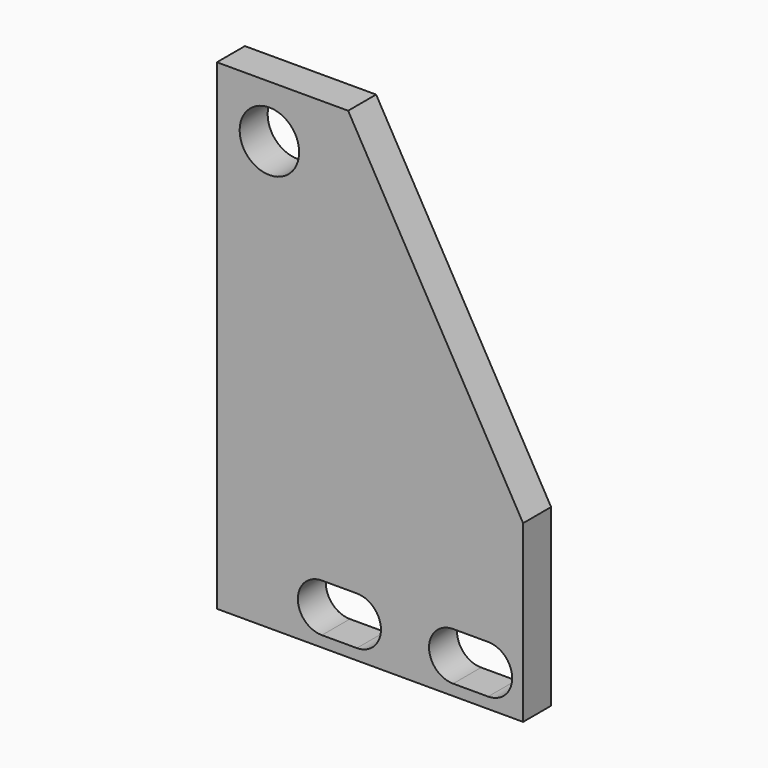
from build123d import *

# Parameters (mm, degrees)
F1_DEPTH = 4
F3_DEPTH = 25
F4_D     = 6.8
F4_DEPTH = 15.35
F4_TIP   = 2.0429261047


with BuildPart() as f1:
    # F0 (on Front) → F1 (new body)
    with BuildSketch(Plane.XZ):
        Polygon((0, 55), (0, 0), (35, 0), (35, 20), (15, 55), align=None)
    extrude(amount=F1_DEPTH)

    # F2 (on face) → F3 (cut)
    with BuildSketch(Plane.XZ.offset(4)):
        with BuildLine():
            ThreePointArc((31, 1.25), (32.9445436483, 2.0554563517), (33.75, 4))
            ThreePointArc((33.75, 4), (32.9445436483, 5.9445436483), (31, 6.75))
            ThreePointArc((31, 6.75), (29.910966294, 6.5251743677), (29, 5.8874586088))
            ThreePointArc((29, 5.8874586088), (29.5556310375, 5.0155048006), (29.75, 4))
            ThreePointArc((29.75, 4), (29.5556310375, 2.9844951994), (29, 2.1125413912))
            ThreePointArc((29, 2.1125413912), (29.910966294, 1.4748256323), (31, 1.25))
        make_face()
        with BuildLine():
            ThreePointArc((29, 5.8874586088), (29.910966294, 6.5251743677), (31, 6.75))
            Line((31, 6.75), (27, 6.75))
            ThreePointArc((27, 6.75), (28.089033706, 6.5251743677), (29, 5.8874586088))
        make_face()
        with BuildLine():
            Line((27, 1.25), (31, 1.25))
            ThreePointArc((31, 1.25), (29.910966294, 1.4748256323), (29, 2.1125413912))
            ThreePointArc((29, 2.1125413912), (28.089033706, 1.4748256323), (27, 1.25))
        make_face()
        with BuildLine():
            ThreePointArc((29, 2.1125413912), (28.25, 4), (29, 5.8874586088))
            ThreePointArc((29, 5.8874586088), (28.089033706, 6.5251743677), (27, 6.75))
            ThreePointArc((27, 6.75), (24.25, 4), (27, 1.25))
            ThreePointArc((27, 1.25), (28.089033706, 1.4748256323), (29, 2.1125413912))
        make_face()
        with BuildLine():
            ThreePointArc((16, 1.25), (17.9445436483, 2.0554563517), (18.75, 4))
            ThreePointArc((18.75, 4), (17.9445436483, 5.9445436483), (16, 6.75))
            ThreePointArc((16, 6.75), (14.910966294, 6.5251743677), (14, 5.8874586088))
            ThreePointArc((14, 5.8874586088), (14.5556310375, 5.0155048006), (14.75, 4))
            ThreePointArc((14.75, 4), (14.5556310375, 2.9844951994), (14, 2.1125413912))
            ThreePointArc((14, 2.1125413912), (14.910966294, 1.4748256323), (16, 1.25))
        make_face()
        with BuildLine():
            ThreePointArc((14, 5.8874586088), (14.910966294, 6.5251743677), (16, 6.75))
            Line((16, 6.75), (12, 6.75))
            ThreePointArc((12, 6.75), (13.089033706, 6.5251743677), (14, 5.8874586088))
        make_face()
        with BuildLine():
            Line((12, 1.25), (16, 1.25))
            ThreePointArc((16, 1.25), (14.910966294, 1.4748256323), (14, 2.1125413912))
            ThreePointArc((14, 2.1125413912), (13.089033706, 1.4748256323), (12, 1.25))
        make_face()
        with BuildLine():
            ThreePointArc((14, 2.1125413912), (13.25, 4), (14, 5.8874586088))
            ThreePointArc((14, 5.8874586088), (13.089033706, 6.5251743677), (12, 6.75))
            ThreePointArc((12, 6.75), (9.25, 4), (12, 1.25))
            ThreePointArc((12, 1.25), (13.089033706, 1.4748256323), (14, 2.1125413912))
        make_face()
        with BuildLine():
            ThreePointArc((14.75, 4), (14.5556310375, 5.0155048006), (14, 5.8874586088))
            ThreePointArc((14, 5.8874586088), (13.25, 4), (14, 2.1125413912))
            ThreePointArc((14, 2.1125413912), (14.5556310375, 2.9844951994), (14.75, 4))
        make_face()
        with BuildLine():
            ThreePointArc((29.75, 4), (29.5556310375, 5.0155048006), (29, 5.8874586088))
            ThreePointArc((29, 5.8874586088), (28.25, 4), (29, 2.1125413912))
            ThreePointArc((29, 2.1125413912), (29.5556310375, 2.9844951994), (29.75, 4))
        make_face()
    extrude(amount=-F3_DEPTH, mode=Mode.SUBTRACT)

    # F4
    with Locations(Plane.XZ.offset(4)):
        with Locations((6, 49)):
            Hole(F4_D / 2, depth=F4_DEPTH)
            with Locations((0, 0, -(F4_DEPTH + F4_TIP / 2))):  # 118° drill point
                Cone(0, F4_D / 2, F4_TIP, mode=Mode.SUBTRACT)


solid = f1.part
